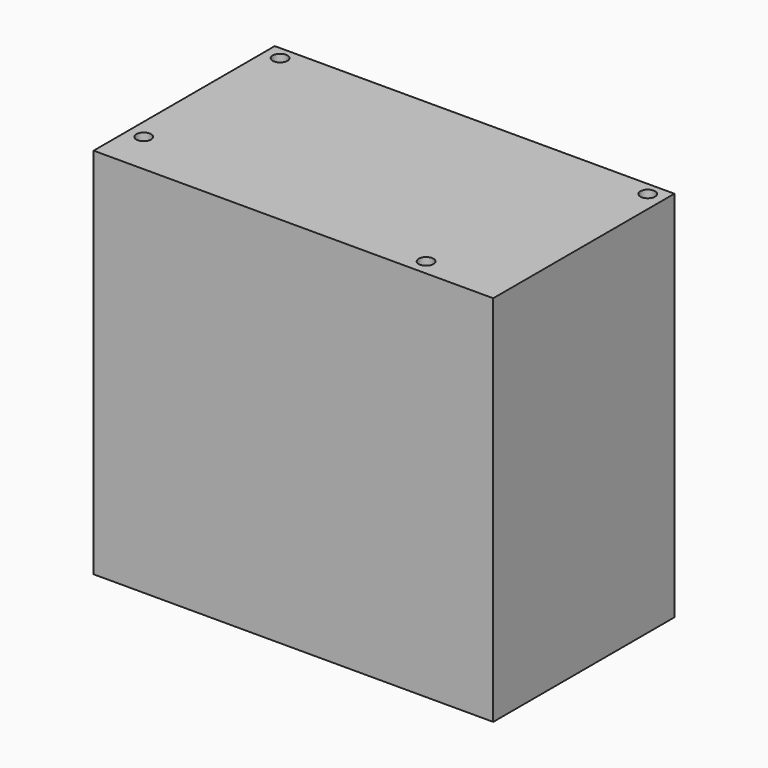
from build123d import *

# Parameters (mm, degrees)
F0_W     = 150
F0_H     = 140
F1_DEPTH = 85
F2_R     = 2.765875
F3_DEPTH = 10


with BuildPart() as f1:
    # F0 (on Front) → F1 (new body)
    with BuildSketch(Plane.XZ):
        with Locations((1.931816, -3.698107)):
            Rectangle(F0_W, F0_H)
    extrude(amount=F1_DEPTH)

    # F2 (on face) → F3 (cut)
    with BuildSketch(Plane.XY.offset(66.301893)):
        with Locations((-67.068184, -5)):
            Circle(F2_R)
        with Locations((-67.068184, -69)):
            Circle(F2_R)
        with Locations((70.931816, -5)):
            Circle(F2_R)
        with Locations((46.931816, -79)):
            Circle(F2_R)
    extrude(amount=-F3_DEPTH, mode=Mode.SUBTRACT)


solid = f1.part
